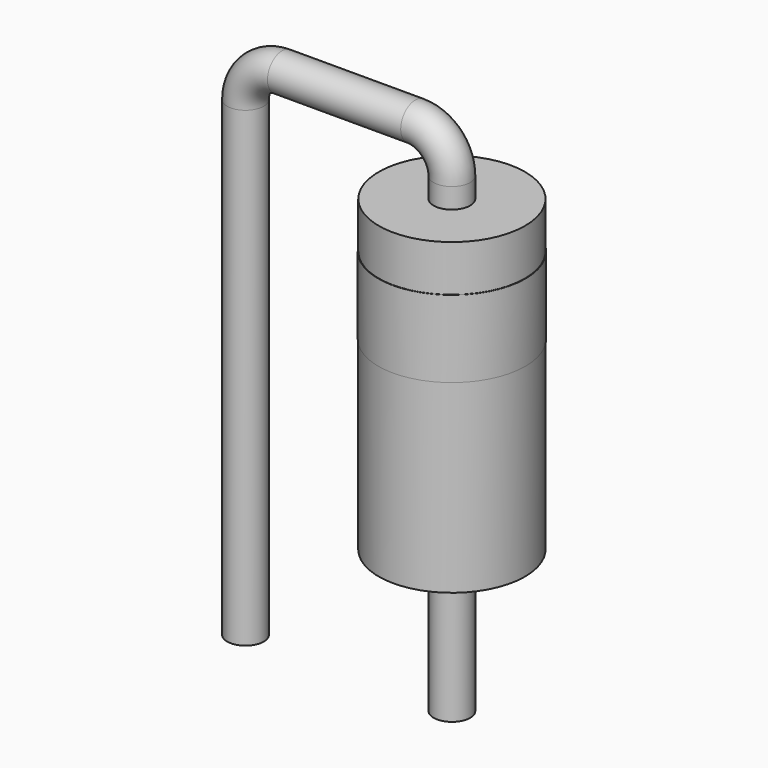
from build123d import *

# Parameters (mm, degrees)
SKETCH001_R = 0.45
SKETCH002_W = 1.8
SKETCH002_H = 7.6
SKETCH003_W = 1.81
SKETCH003_H = 1.9


with BuildPart() as sweep_body:
    # Sweep: sweep along a path in Sketch
    with BuildLine(Plane.XZ) as sweep_path:
        Line((0, -3), (0, 8.6))
        ThreePointArc((0, 8.6), (0.263604, 9.236396), (0.9, 9.5))
        Line((0.9, 9.5), (4.18, 9.5))
        ThreePointArc((4.18, 9.5), (4.816396, 9.236396), (5.08, 8.6))
        Line((5.08, 8.6), (5.08, -3))
    # Sketch001 → Sweep (sweep)
    with BuildSketch(Plane.XY):
        Circle(SKETCH001_R)
    sweep(path=sweep_path.line)


with BuildPart() as revolution:
    # Sketch002 → Revolution (revolve)
    with BuildSketch(Plane.XZ):
        with Locations((5.98, 4.3)):
            Rectangle(SKETCH002_W, SKETCH002_H)
    revolve(axis=Axis((5.08, 0, 0.5), (0, 0, 1)))


with BuildPart() as revolution001:
    # Sketch003 → Revolution001 (revolve)
    with BuildSketch(Plane.XZ):
        with Locations((5.985, 6.01)):
            Rectangle(SKETCH003_W, SKETCH003_H)
    revolve(axis=Axis((5.08, 0, 5.06), (0, 0, 1)))


solid = Compound([sweep_body.part, revolution.part, revolution001.part])
